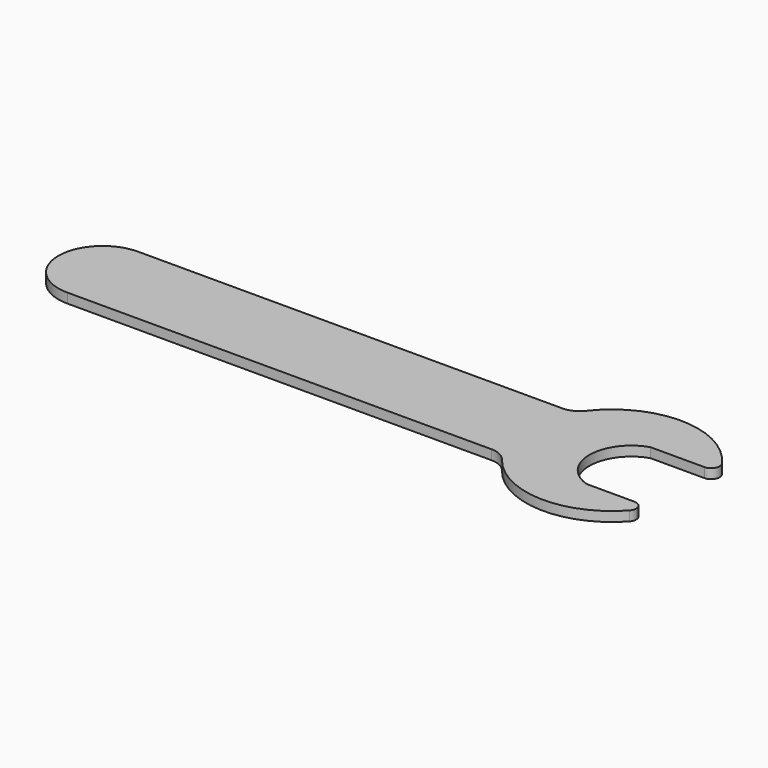
from build123d import *

# Parameters (mm, degrees)
F1_DEPTH = 2.8194


with BuildPart() as f1:
    # F0 (on Top) → F1 (new body)
    with BuildSketch(Plane.XY):
        with BuildLine():
            ThreePointArc((-5.911858, 28.195099), (-8.135546, 26.385217), (-10.928661, 25.737936))
            Line((-10.928661, 25.737936), (-134.269512, 25.737936))
            ThreePointArc((-134.269512, 25.737936), (-147.13848, 12.868968), (-134.269512, 0))
            Line((-134.269512, 0), (-10.928661, 0))
            ThreePointArc((-10.928661, 0), (-8.135546, -0.647281), (-5.911858, -2.457163))
            ThreePointArc((-5.911858, -2.457163), (12.871345, -12.112285), (32.345354, -3.939582))
            ThreePointArc((32.345354, -3.939582), (32.769998, -1.313703), (30.54071, 0.137446))
            Line((30.54071, 0.137446), (16.633371, 0.137446))
            ThreePointArc((16.633371, 0.137446), (8.182531, 11.737446), (16.633371, 23.337446))
            Line((16.633371, 23.337446), (32.345354, 23.337446))
            ThreePointArc((32.345354, 23.337446), (34.506755, 24.647631), (34.344997, 27.169945))
            ThreePointArc((34.344997, 27.169945), (14.475764, 37.860866), (-5.911858, 28.195099))
        make_face()
    extrude(amount=F1_DEPTH)


solid = f1.part
